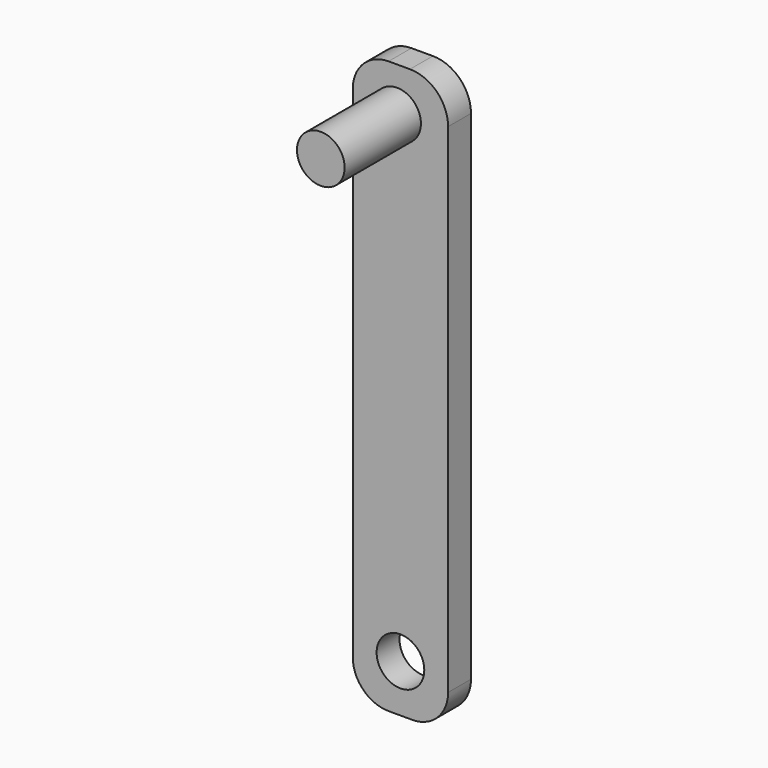
from build123d import *

# Parameters (mm, degrees)
F0_R     = 2.5
F1_DEPTH = 3
F2_DEPTH = 13


with BuildPart() as f1:
    # F0 (on Front) → F1 (new body)
    with BuildSketch(Plane.XZ):
        with BuildLine():
            Line((-16.111997, 30.704304), (-18.354637, 30.704304))
            ThreePointArc((-18.354637, 30.704304), (-21.011492, 29.603799), (-22.111997, 26.946945))
            Line((-22.111997, 26.946945), (-22.111997, -25.538337))
            ThreePointArc((-22.111997, -25.538337), (-21.011492, -28.195191), (-18.354637, -29.295696))
            Line((-18.354637, -29.295696), (-15.869356, -29.295696))
            ThreePointArc((-15.869356, -29.295696), (-13.212502, -28.195191), (-12.111997, -25.538337))
            Line((-12.111997, -25.538337), (-12.111997, 26.704304))
            ThreePointArc((-12.111997, 26.704304), (-13.283569, 29.532731), (-16.111997, 30.704304))
        make_face()
        with Locations((-17.111997, -24.295696)):
            Circle(F0_R, mode=Mode.SUBTRACT)
        with Locations((-17.46555, 26.057857)):
            Circle(F0_R, mode=Mode.SUBTRACT)
        with BuildLine():
            Line((-16.111997, 30.704304), (-18.354637, 30.704304))
            ThreePointArc((-18.354637, 30.704304), (-21.011492, 29.603799), (-22.111997, 26.946945))
            Line((-22.111997, 26.946945), (-22.111997, -25.538337))
            ThreePointArc((-22.111997, -25.538337), (-21.011492, -28.195191), (-18.354637, -29.295696))
            Line((-18.354637, -29.295696), (-15.869356, -29.295696))
            ThreePointArc((-15.869356, -29.295696), (-13.212502, -28.195191), (-12.111997, -25.538337))
            Line((-12.111997, -25.538337), (-12.111997, 26.704304))
            ThreePointArc((-12.111997, 26.704304), (-13.283569, 29.532731), (-16.111997, 30.704304))
        make_face()
        with Locations((-17.111997, -24.295696)):
            Circle(F0_R, mode=Mode.SUBTRACT)
        with Locations((-17.46555, 26.057857)):
            Circle(F0_R, mode=Mode.SUBTRACT)
    extrude(amount=F1_DEPTH)

    # F0 (on Front) → F2 (join)
    with BuildSketch(Plane.XZ):
        with Locations((-17.46555, 26.057857)):
            Circle(F0_R)
    extrude(amount=F2_DEPTH)


solid = f1.part
